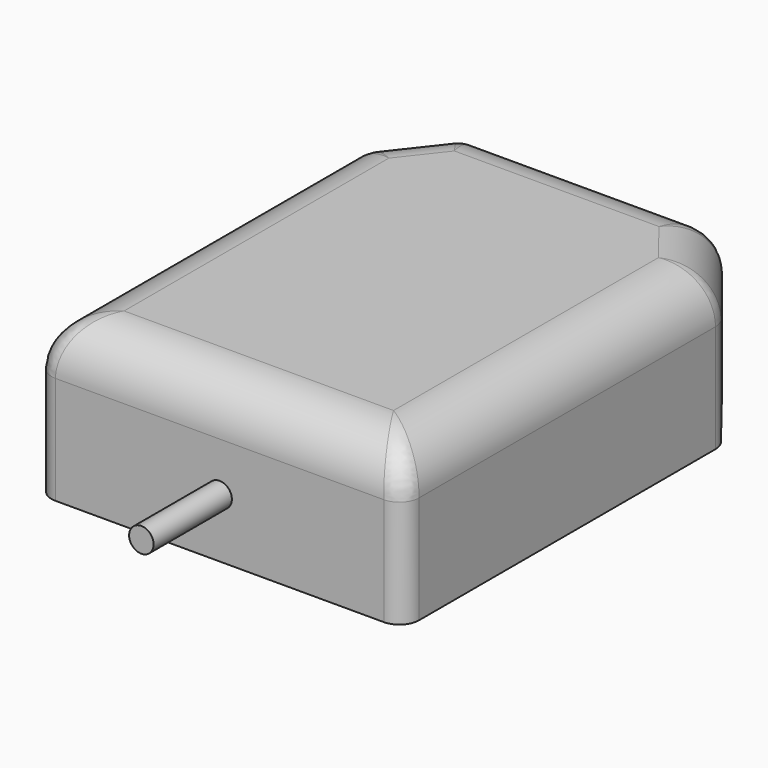
from build123d import *

# Parameters (mm, degrees)
CYLINDER019_R             = 1.25
CYLINDER019_DEPTH         = 10
EXTRUDE002_DEPTH          = 16
FILLET_R                  = 5
FILLET001_R               = 2
FUSION001_PLACEMENT_ANGLE = 180


with BuildPart() as cylinder019:
    # Cylinder019 → Cylinder019 (new body)
    with BuildSketch(Plane(origin=(18.75, 47.98, 6), x_dir=(1, 0, 0), z_dir=(0, 1, 0))):
        Circle(CYLINDER019_R)
    extrude(amount=CYLINDER019_DEPTH)


with BuildPart() as gps002:
    # Sketch016 → Extrude002 (new body)
    with BuildSketch(Plane.XY):
        Polygon((5.88, 0), (31.63, 0), (37.5, 7.5), (37.5, 48), (0, 48), (0, 7.5), align=None)
    extrude(amount=EXTRUDE002_DEPTH)

    # Fillet
    fillet_edges = [gps002.edges().sort_by_distance(p)[0] for p in [
        (18.755, 0, 16),
        (34.565, 3.75, 16),
        (37.5, 27.75, 16),
        (18.75, 48, 16),
        (0, 27.75, 16),
        (2.94, 3.75, 16),
    ]]
    fillet(fillet_edges, radius=FILLET_R)

    # Fillet001
    fillet001_edges = [gps002.edges().sort_by_distance(p)[0] for p in [
        (5.88, 0, 5.5),
        (31.63, 0, 5.5),
        (0, 7.5, 5.5),
        (37.5, 7.5, 5.5),
        (0, 48, 5.5),
        (37.5, 48, 5.5),
    ]]
    fillet(fillet001_edges, radius=FILLET001_R)

    # Fusion001: union Cylinder019
    add(cylinder019.part)


with BuildPart() as gps002_1:
    # Fusion001 placement: moved
    add(gps002.part.moved(Location((91.67, 220, 39))).rotate(Axis((91.67, 220, 39), (0, 0, 1)), FUSION001_PLACEMENT_ANGLE))


solid = gps002_1.part
